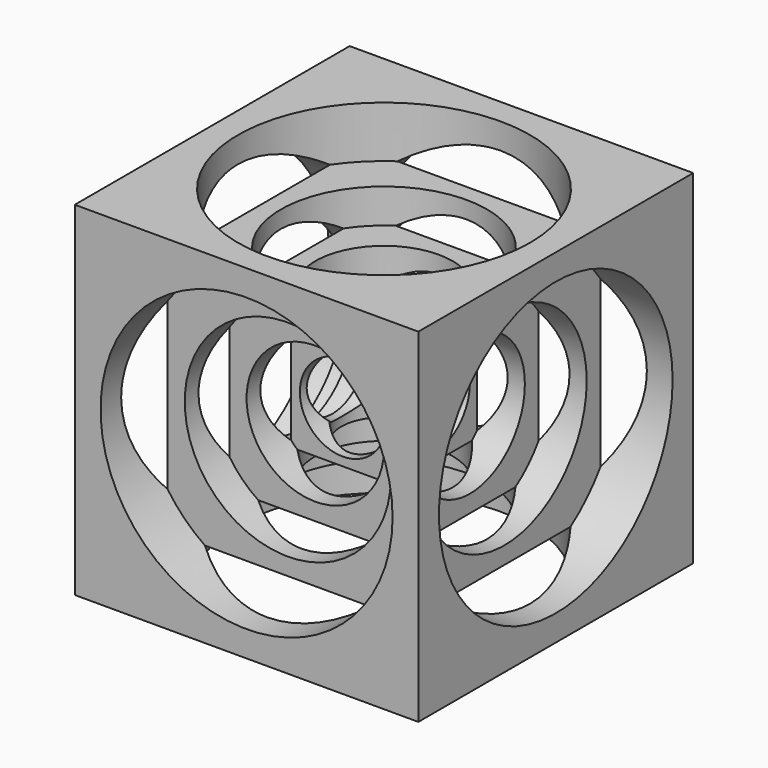
from build123d import *

# Parameters (mm, degrees)
F0_W      = 100
F0_H      = 100
F1_DEPTH  = 50
F2_R      = 42.5
F3_DEPTH  = 15
F4_R      = 42.5
F5_DEPTH  = 15
F6_R      = 42.5
F7_DEPTH  = 15
F8_R      = 42.5
F9_DEPTH  = 15
F10_R     = 30
F11_DEPTH = 10
F12_R     = 30
F13_DEPTH = 10
F14_R     = 30
F15_DEPTH = 10
F16_R     = 30
F17_DEPTH = 10
F18_R     = 20
F19_DEPTH = 10
F20_R     = 20
F21_DEPTH = 10
F22_R     = 20
F23_DEPTH = 10
F24_R     = 20
F25_DEPTH = 10
F26_R     = 12.5
F27_DEPTH = 10
F28_R     = 12.5
F29_DEPTH = 10
F30_R     = 12.5
F31_DEPTH = 65.001
F32_R     = 12.5
F33_DEPTH = 65.001
F34_R     = 42.5
F35_DEPTH = 15
F36_R     = 30
F37_DEPTH = 10
F38_R     = 20
F39_DEPTH = 10
F40_R     = 12.5
F41_DEPTH = 10
F42_R     = 42.5
F43_DEPTH = 15
F44_R     = 30
F45_DEPTH = 10
F46_R     = 20
F47_DEPTH = 10
F48_R     = 12.5
F49_DEPTH = 65.001


with BuildPart() as f1:
    # F0 (on Front) → F1 (new body, symmetric)
    with BuildSketch(Plane.XZ):
        Rectangle(F0_W, F0_H)
    extrude(amount=F1_DEPTH, both=True)

    # F2 (on face) → F3 (cut)
    with BuildSketch(Plane.YZ.offset(50)):
        Circle(F2_R)
    extrude(amount=-F3_DEPTH, mode=Mode.SUBTRACT)

    # F4 (on face) → F5 (cut)
    with BuildSketch(Plane.XZ.offset(50)):
        Circle(F4_R)
    extrude(amount=-F5_DEPTH, mode=Mode.SUBTRACT)

    # F6 (on face) → F7 (cut)
    with BuildSketch(Plane(origin=(-50, 0, 0), x_dir=(0, -1, 0), z_dir=(-1, 0, 0))):
        Circle(F6_R)
    extrude(amount=-F7_DEPTH, mode=Mode.SUBTRACT)

    # F8 (on face) → F9 (cut)
    with BuildSketch(Plane(origin=(0, 50, 0), x_dir=(-1, 0, 0), z_dir=(0, 1, 0))):
        Circle(F8_R)
    extrude(amount=-F9_DEPTH, mode=Mode.SUBTRACT)

    # F10 (on face) → F11 (cut)
    with BuildSketch(Plane.XZ.offset(35)):
        Circle(F10_R)
    extrude(amount=-F11_DEPTH, mode=Mode.SUBTRACT)

    # F12 (on face) → F13 (cut)
    with BuildSketch(Plane(origin=(-35, 0, 0), x_dir=(0, -1, 0), z_dir=(-1, 0, 0))):
        Circle(F12_R)
    extrude(amount=-F13_DEPTH, mode=Mode.SUBTRACT)

    # F14 (on face) → F15 (cut)
    with BuildSketch(Plane(origin=(0, 35, 0), x_dir=(-1, 0, 0), z_dir=(0, 1, 0))):
        Circle(F14_R)
    extrude(amount=-F15_DEPTH, mode=Mode.SUBTRACT)

    # F16 (on face) → F17 (cut)
    with BuildSketch(Plane.YZ.offset(35)):
        Circle(F16_R)
    extrude(amount=-F17_DEPTH, mode=Mode.SUBTRACT)

    # F18 (on face) → F19 (cut)
    with BuildSketch(Plane.YZ.offset(25)):
        Circle(F18_R)
    extrude(amount=-F19_DEPTH, mode=Mode.SUBTRACT)

    # F20 (on face) → F21 (cut)
    with BuildSketch(Plane.XZ.offset(25)):
        Circle(F20_R)
    extrude(amount=-F21_DEPTH, mode=Mode.SUBTRACT)

    # F22 (on face) → F23 (cut)
    with BuildSketch(Plane(origin=(-25, 0, 0), x_dir=(0, -1, 0), z_dir=(-1, 0, 0))):
        Circle(F22_R)
    extrude(amount=-F23_DEPTH, mode=Mode.SUBTRACT)

    # F24 (on face) → F25 (cut)
    with BuildSketch(Plane(origin=(0, 25, 0), x_dir=(-1, 0, 0), z_dir=(0, 1, 0))):
        Circle(F24_R)
    extrude(amount=-F25_DEPTH, mode=Mode.SUBTRACT)

    # F26 (on face) → F27 (cut)
    with BuildSketch(Plane(origin=(0, 15, 0), x_dir=(-1, 0, 0), z_dir=(0, 1, 0))):
        Circle(F26_R)
    extrude(amount=-F27_DEPTH, mode=Mode.SUBTRACT)

    # F28 (on face) → F29 (cut)
    with BuildSketch(Plane.YZ.offset(15)):
        Circle(F28_R)
    extrude(amount=-F29_DEPTH, mode=Mode.SUBTRACT)

    # F30 (on face) → F31 (cut, through all)
    with BuildSketch(Plane.XZ.offset(15)):
        Circle(F30_R)
    extrude(amount=-F31_DEPTH, mode=Mode.SUBTRACT)

    # F32 (on face) → F33 (cut, through all)
    with BuildSketch(Plane(origin=(-15, 0, 0), x_dir=(0, -1, 0), z_dir=(-1, 0, 0))):
        Circle(F32_R)
    extrude(amount=-F33_DEPTH, mode=Mode.SUBTRACT)

    # F34 (on face) → F35 (cut)
    with BuildSketch(Plane.XY.offset(50)):
        Circle(F34_R)
    extrude(amount=-F35_DEPTH, mode=Mode.SUBTRACT)

    # F36 (on face) → F37 (cut)
    with BuildSketch(Plane.XY.offset(35)):
        Circle(F36_R)
    extrude(amount=-F37_DEPTH, mode=Mode.SUBTRACT)

    # F38 (on face) → F39 (cut)
    with BuildSketch(Plane.XY.offset(25)):
        Circle(F38_R)
    extrude(amount=-F39_DEPTH, mode=Mode.SUBTRACT)

    # F40 (on face) → F41 (cut)
    with BuildSketch(Plane.XY.offset(15)):
        Circle(F40_R)
    extrude(amount=-F41_DEPTH, mode=Mode.SUBTRACT)

    # F42 (on face) → F43 (cut)
    with BuildSketch(Plane(origin=(0, 0, -50), x_dir=(1, 0, 0), z_dir=(0, 0, -1))):
        Circle(F42_R)
    extrude(amount=-F43_DEPTH, mode=Mode.SUBTRACT)

    # F44 (on face) → F45 (cut)
    with BuildSketch(Plane(origin=(0, 0, -35), x_dir=(1, 0, 0), z_dir=(0, 0, -1))):
        Circle(F44_R)
    extrude(amount=-F45_DEPTH, mode=Mode.SUBTRACT)

    # F46 (on face) → F47 (cut)
    with BuildSketch(Plane(origin=(0, 0, -25), x_dir=(1, 0, 0), z_dir=(0, 0, -1))):
        Circle(F46_R)
    extrude(amount=-F47_DEPTH, mode=Mode.SUBTRACT)

    # F48 (on face) → F49 (cut, through all)
    with BuildSketch(Plane(origin=(0, 0, -15), x_dir=(1, 0, 0), z_dir=(0, 0, -1))):
        Circle(F48_R)
    extrude(amount=-F49_DEPTH, mode=Mode.SUBTRACT)


solid = f1.part
